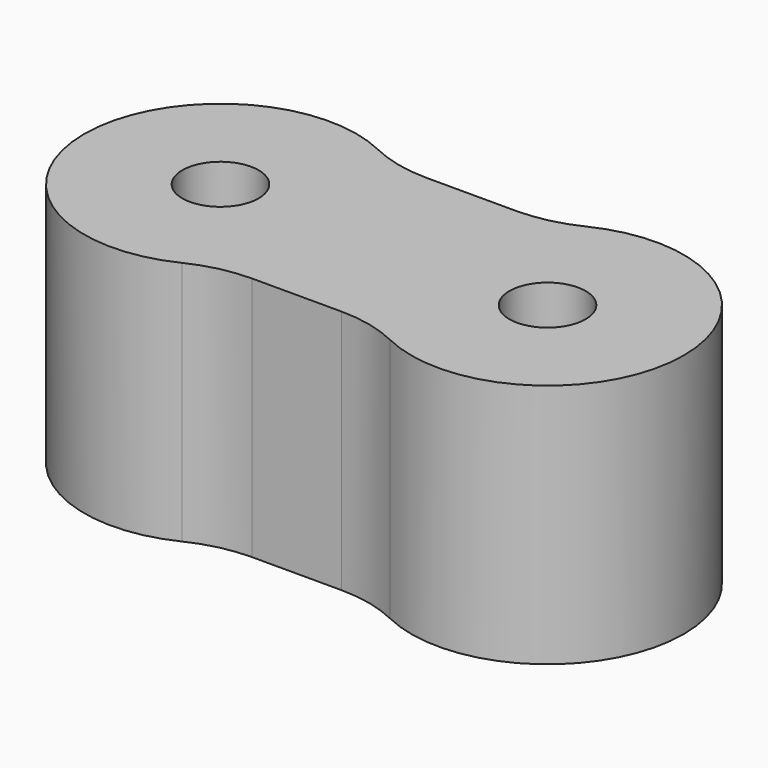
from build123d import *

# Parameters (mm, degrees)
F0_R     = 1.4
F1_DEPTH = 9
F2_R     = 5


with BuildPart() as f1:
    # F0 (on Top) → F1 (new body)
    with BuildSketch(Plane.XY):
        with BuildLine():
            Line((0, -4), (0, 0))
            Line((0, 0), (-1, 0))
            ThreePointArc((-1, 0), (-1.527864, -2.236068), (-3, -4))
            Line((-3, -4), (0, -4))
        make_face()
        with BuildLine():
            Line((-1, 0), (0, 0))
            Line((0, 0), (0, 4))
            Line((0, 4), (-3, 4))
            ThreePointArc((-3, 4), (-1.527864, 2.236068), (-1, 0))
        make_face()
        with Locations((-6, 0)):
            Circle(F0_R)
        with BuildLine():
            ThreePointArc((-3, -4), (-1.527864, -2.236068), (-1, 0))
            ThreePointArc((-1, 0), (-1.527864, 2.236068), (-3, 4))
            ThreePointArc((-3, 4), (-11, 0), (-3, -4))
        make_face()
        with Locations((-6, 0)):
            Circle(F0_R, mode=Mode.SUBTRACT)
    extrude(amount=F1_DEPTH)

    # F2
    f2_edges = [f1.edges().sort_by_distance(p)[0] for p in [
        (-3, 4, 4.5),
        (-3, -4, 4.5),
    ]]
    fillet(f2_edges, radius=F2_R)

    # F3: F1 across face


with BuildPart() as f1_1:
    add(f1.part)
    add(f1.part.mirror(Plane(origin=(0, 0, 4.5), x_dir=(0, 1, 0), z_dir=(1, 0, 0))))


solid = f1_1.part
